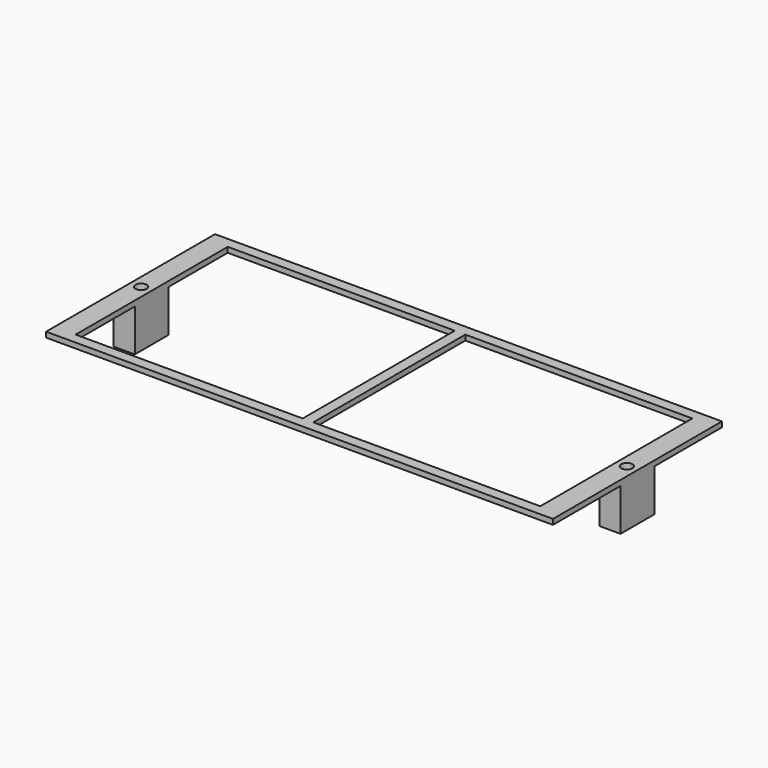
from build123d import *

# Parameters (mm, degrees)
F0_W     = 304.8
F0_H     = 127
F0_W_2   = 136.525
F0_H_2   = 114.3
F1_DEPTH = 3.175
F2_W     = 12.7
F2_H     = 25.4
F3_DEPTH = 25.4
F5_D     = 6.7564


with BuildPart() as f1:
    # F0 (on Top) → F1 (new body)
    with BuildSketch(Plane.XY):
        with Locations((152.4, 63.5)):
            Rectangle(F0_W, F0_H)
        with Locations((80.9625, 63.5)):
            Rectangle(F0_W_2, F0_H_2, mode=Mode.SUBTRACT)
        with Locations((223.8375, 63.5)):
            Rectangle(F0_W_2, F0_H_2, mode=Mode.SUBTRACT)
    extrude(amount=F1_DEPTH)

    # F2 (on face) → F3 (join)
    with BuildSketch(Plane(origin=(0, 0, 0), x_dir=(1, 0, 0), z_dir=(0, 0, -1))):
        with Locations((6.35, -63.5)):
            Rectangle(F2_W, F2_H)
        with Locations((298.45, -63.5)):
            Rectangle(F2_W, F2_H)
    extrude(amount=F3_DEPTH)

    # F5 (through all)
    with Locations(Plane(origin=(0, 0, -25.4), x_dir=(1, 0, 0), z_dir=(0, 0, -1))):
        with Locations((6.35, -63.5), (298.45, -63.5)):
            Hole(F5_D / 2)


solid = f1.part
